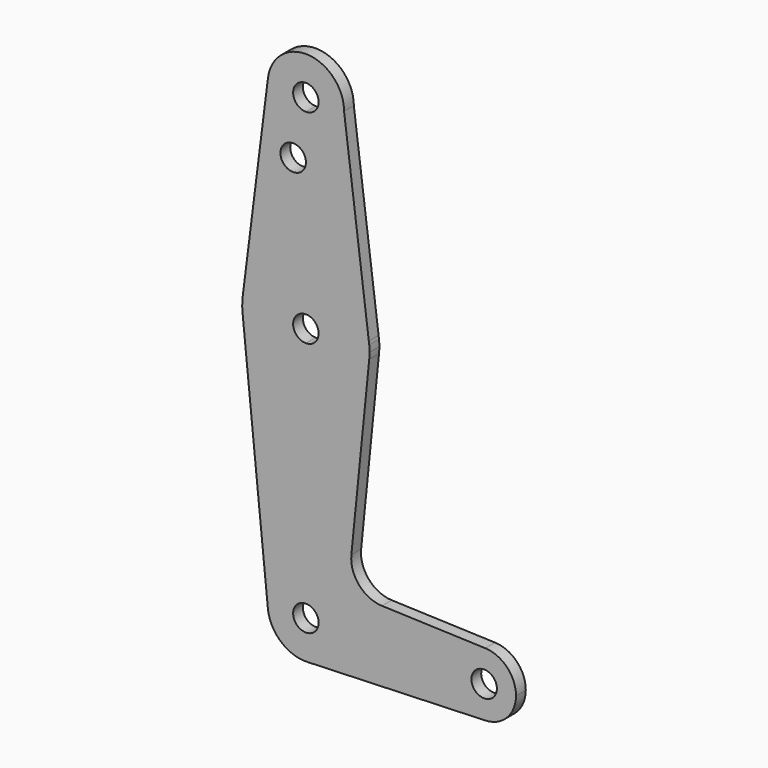
from build123d import *

# Parameters (mm, degrees)
F1_DEPTH = 3.048


with BuildPart() as f1:
    # F0 (on Front) → F1 (new body)
    with BuildSketch(Plane.XZ):
        with BuildLine():
            ThreePointArc((0, 9.525), (6.7351920908, 6.7351920908), (9.525, 0))
            Line((9.525, 0), (36.5125, 0))
            ThreePointArc((36.5125, 0), (38.9384772185, 5.7120069047), (44.7334821429, 7.9324362036))
            Line((44.7334821429, 7.9324362036), (18.9676000005, 8.8532337108))
            ThreePointArc((18.9676000005, 8.8532337108), (13.2611998974, 11.5713591498), (11.3411865923, 17.5933818124))
            Line((11.3411865923, 17.5933818124), (15.7954255641, 61.9125))
            ThreePointArc((15.7954255641, 61.9125), (10.6492737428, 51.7267849017), (0, 47.625))
            Line((0, 47.625), (0, 9.525))
        make_face()
        with BuildLine():
            ThreePointArc((-9.4772553384, -0.9525), (-7.063929059, 6.3895642457), (0, 9.525))
            Line((0, 9.525), (0, 47.625))
            ThreePointArc((0, 47.625), (-10.6492737428, 51.7267849017), (-15.7954255641, 61.9125))
            Line((-15.7954255641, 61.9125), (-9.4772553384, -0.9525))
        make_face()
        with BuildLine():
            ThreePointArc((-15.7954255641, 61.9125), (-10.6492737428, 51.7267849017), (0, 47.625))
            Line((0, 47.625), (0, 60.325))
            ThreePointArc((0, 60.325), (-3.175, 63.5), (0, 66.675))
            Line((0, 66.675), (0, 79.375))
            ThreePointArc((0, 79.375), (-10.5003255158, 75.40625), (-15.7504882737, 65.484375))
            ThreePointArc((-15.7504882737, 65.484375), (-15.8737438155, 63.6997054867), (-15.7954255641, 61.9125))
        make_face()
        with BuildLine():
            Line((0, 60.325), (0, 47.625))
            ThreePointArc((0, 47.625), (10.6492737428, 51.7267849017), (15.7954255641, 61.9125))
            ThreePointArc((15.7954255641, 61.9125), (15.8550939106, 62.7052534459), (15.875, 63.5))
            ThreePointArc((15.875, 63.5), (15.8550939106, 64.2947465541), (15.7954255641, 65.0875))
            Line((15.7954255641, 65.0875), (15.68883294, 65.9240763148))
            ThreePointArc((15.68883294, 65.9240763148), (10.3327976246, 75.5519259145), (0, 79.375))
            Line((0, 79.375), (0, 66.675))
            ThreePointArc((0, 66.675), (2.2450640303, 65.7450640303), (3.175, 63.5))
            ThreePointArc((3.175, 63.5), (2.2450640303, 61.2549359697), (0, 60.325))
        make_face()
        with BuildLine():
            Line((-9.4502929642, 115.490625), (-15.7504882737, 65.484375))
            ThreePointArc((-15.7504882737, 65.484375), (-10.5003255158, 75.40625), (0, 79.375))
            Line((0, 79.375), (0, 99.7749403283))
            ThreePointArc((0, 99.7749403283), (-6.3401216559, 100.0252), (0, 100.2754596717))
            Line((0, 100.2754596717), (0, 104.775))
            ThreePointArc((0, 104.775), (-7.14375, 107.9998046905), (-9.4502929642, 115.490625))
        make_face()
        with BuildLine():
            Line((0, 99.7749403283), (0, 79.375))
            ThreePointArc((0, 79.375), (10.3327976246, 75.5519259145), (15.68883294, 65.9240763148))
            Line((15.68883294, 65.9240763148), (9.525, 114.3))
            ThreePointArc((9.525, 114.3), (6.7351920908, 107.5648079092), (0, 104.775))
            Line((0, 104.775), (0, 100.2754596717))
            ThreePointArc((0, 100.2754596717), (0.0074077969, 100.1504272783), (0.0098783441, 100.0252))
            ThreePointArc((0.0098783441, 100.0252), (0.0074077969, 99.8999727217), (0, 99.7749403283))
        make_face()
        with BuildLine():
            ThreePointArc((9.525, 114.3), (0.596483242, 123.8063048942), (-9.4502929642, 115.490625))
            ThreePointArc((-9.4502929642, 115.490625), (-7.14375, 107.9998046905), (0, 104.775))
            ThreePointArc((0, 104.775), (6.7351920908, 107.5648079092), (9.525, 114.3))
        make_face()
        with BuildLine():
            ThreePointArc((3.175, 114.3), (2.2450640303, 112.0549359697), (0, 111.125))
            ThreePointArc((0, 111.125), (-2.2450640303, 116.5450640303), (3.175, 114.3))
        make_face(mode=Mode.SUBTRACT)
        with BuildLine():
            Line((36.5125, 0), (9.525, 0))
            ThreePointArc((9.525, 0), (6.8544082857, -6.6138273378), (0.3401785714, -9.5189234444))
            Line((0.3401785714, -9.5189234444), (44.7334821429, -7.9324362036))
            ThreePointArc((44.7334821429, -7.9324362036), (38.9384772185, -5.7120069047), (36.5125, 0))
        make_face()
        with BuildLine():
            Line((9.525, 0), (3.175, 0))
            ThreePointArc((3.175, 0), (-2.2450640303, -2.2450640303), (0, 3.175))
            Line((0, 3.175), (0, 9.525))
            ThreePointArc((0, 9.525), (-7.063929059, 6.3895642457), (-9.4772553384, -0.9525))
            ThreePointArc((-9.4772553384, -0.9525), (-6.2623833816, -7.1769199091), (0.3401785714, -9.5189234444))
            ThreePointArc((0.3401785714, -9.5189234444), (6.8544082857, -6.6138273378), (9.525, 0))
        make_face()
        with BuildLine():
            ThreePointArc((44.7334821429, 7.9324362036), (38.9384772185, 5.7120069047), (36.5125, 0))
            ThreePointArc((36.5125, 0), (38.9384772185, -5.7120069047), (44.7334821429, -7.9324362036))
            ThreePointArc((44.7334821429, -7.9324362036), (50.1620069047, -5.5115227815), (52.3875, 0))
            ThreePointArc((52.3875, 0), (50.1620069047, 5.5115227815), (44.7334821429, 7.9324362036))
        make_face()
        with BuildLine():
            ThreePointArc((47.625, 0), (44.45, -3.175), (41.275, 0))
            ThreePointArc((41.275, 0), (44.45, 3.175), (47.625, 0))
        make_face(mode=Mode.SUBTRACT)
        with BuildLine():
            ThreePointArc((0, 3.175), (2.2450640303, 2.2450640303), (3.175, 0))
            Line((3.175, 0), (9.525, 0))
            ThreePointArc((9.525, 0), (6.7351920908, 6.7351920908), (0, 9.525))
            Line((0, 9.525), (0, 3.175))
        make_face()
    extrude(amount=F1_DEPTH)


solid = f1.part
